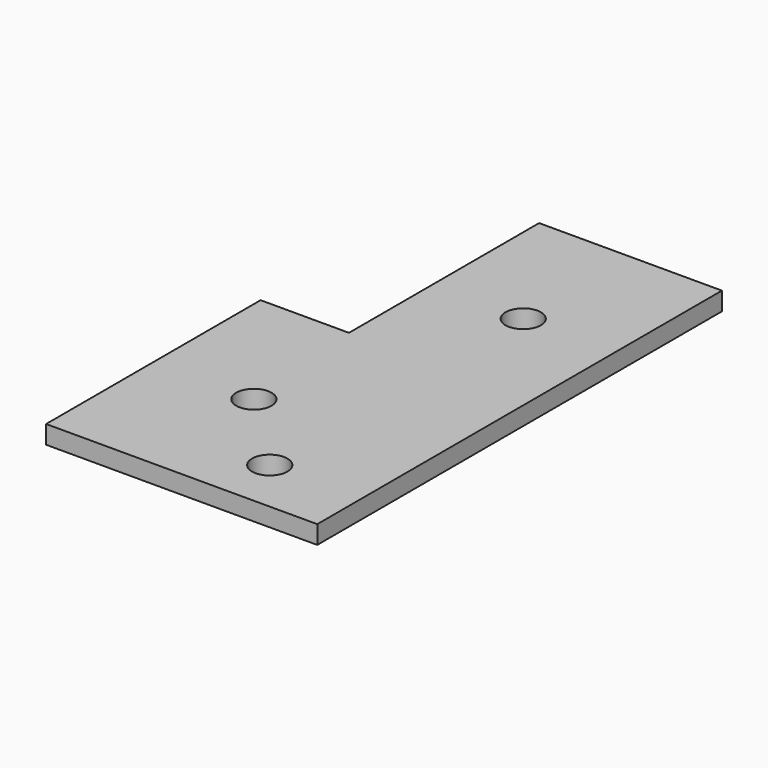
from build123d import *

# Parameters (mm, degrees)
PAD034_DEPTH  = 3
SKETCH060_R   = 2.9
HOLE001_DEPTH = 4.001


with BuildPart() as part:
    # Sketch058 → Pad034 (new body)
    with BuildSketch(Plane.XY.offset(-58.5)):
        Polygon((111, 40), (81, 40), (81, 1), (66.5, 1), (66.5, -43), (111, -43), align=None)
    extrude(amount=PAD034_DEPTH)

    # Sketch060 → Hole001 (cut, through all)
    with BuildSketch(Plane(origin=(1, 0, -54.5), x_dir=(1, 0, 0), z_dir=(0, 0, 1))):
        with Locations((95, 18)):
            Circle(SKETCH060_R)
        with Locations((82, -21)):
            Circle(SKETCH060_R)
        with Locations((95, -34)):
            Circle(SKETCH060_R)
    extrude(amount=-HOLE001_DEPTH, mode=Mode.SUBTRACT)


with BuildPart() as part_1:
    # Body014 placement: moved
    add(part.part.moved(Location((18.5, 0, 0))))


solid = part_1.part
